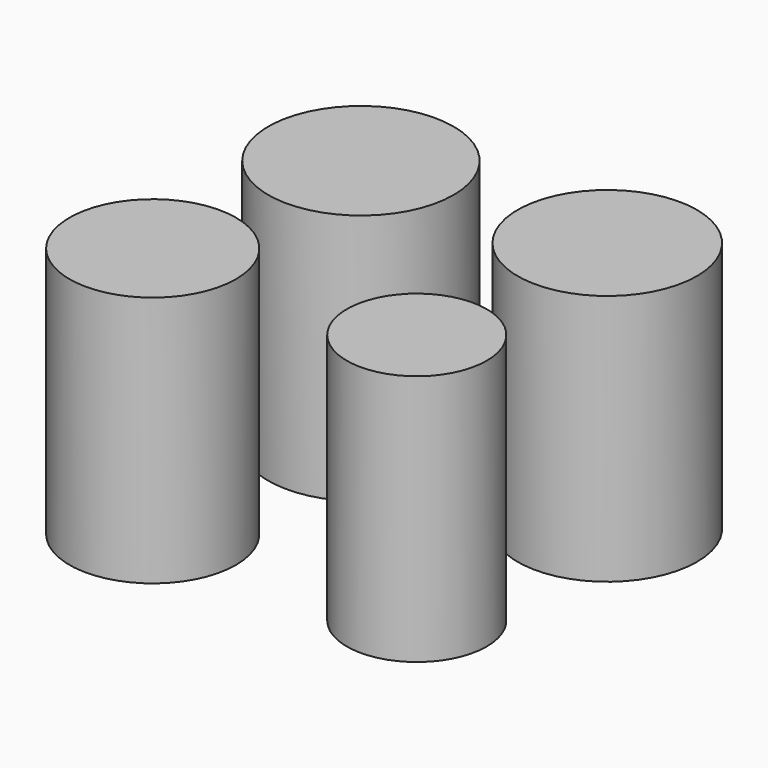
from build123d import *

# Parameters (mm, degrees)
F0_R     = 30.33987
F0_R_2   = 29.350011
F0_R_3   = 22.891983
F0_R_4   = 27.25504
F1_DEPTH = 82.348295


with BuildPart() as f1:
    # F0 (on Top) → F1 (new body)
    with BuildSketch(Plane.XY):
        with Locations((-39.228059, 35.806298)):
            Circle(F0_R)
        with Locations((38.372621, 39.59468)):
            Circle(F0_R_2)
        with Locations((32.140136, -30.551463)):
            Circle(F0_R_3)
        with Locations((-50.470993, -35.317481)):
            Circle(F0_R_4)
    extrude(amount=F1_DEPTH)


solid = f1.part
